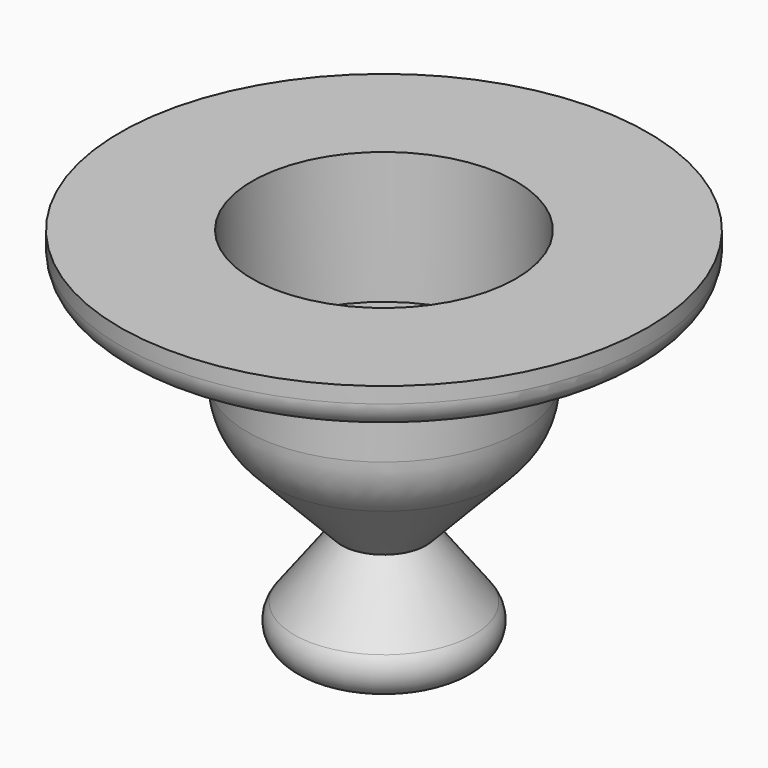
from build123d import *

# Parameters (mm, degrees)
F2_R     = 25
F3_DEPTH = 25


with BuildPart() as f1:
    # F0 (on Front) → F1 (revolve)
    with BuildSketch(Plane.XZ):
        with BuildLine():
            Line((50, 70), (0, 70))
            Line((0, 70), (0, 0))
            Line((0, 0), (13, 0))
            ThreePointArc((13, 0), (17.472136, 2.763932), (17, 8))
            Line((17, 8), (8, 20))
            Line((8, 20), (21.833287, 34.444382))
            ThreePointArc((21.833287, 34.444382), (24.919398, 39.229146), (26, 44.819347))
            Line((26, 44.819347), (26, 60))
            Line((26, 60), (36, 60))
            Line((36, 60), (36, 62))
            Line((36, 62), (45, 62))
            ThreePointArc((45, 62), (48.535534, 63.464466), (50, 67))
            Line((50, 67), (50, 70))
        make_face()
    revolve(axis=Axis((0, 0, 35), (0, 0, 1)))

    # F2 (on face) → F3 (cut)
    with BuildSketch(Plane.XY.offset(70)):
        Circle(F2_R)
    extrude(amount=-F3_DEPTH, mode=Mode.SUBTRACT)


solid = f1.part
